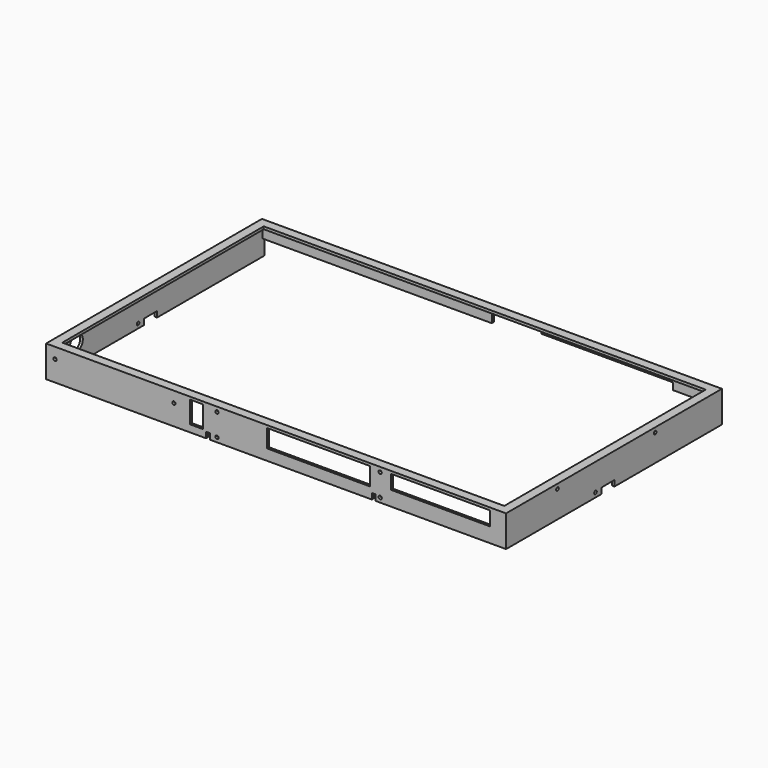
from build123d import *

# Parameters (mm, degrees)
EXTRUDE022_DEPTH        = 11
SKETCH124_W             = 3
SKETCH124_H             = 12.5
SKETCH124_H_2           = 3
EXTRUDE114_DEPTH        = 6
SKETCH126_R             = 1.28
EXTRUDE116_DEPTH        = 10
BODY064_PLACEMENT_ANGLE = 90
BODY068_PLACEMENT_ANGLE = 90
BODY069_PLACEMENT_ANGLE = 90
BODY070_PLACEMENT_ANGLE = 90
BODY071_PLACEMENT_ANGLE = 90
BODY072_ROLL_ANGLE      = -90
BODY072_PLACEMENT_ANGLE = 90
BODY076_ROLL_ANGLE      = -90
BODY076_PLACEMENT_ANGLE = -90
BODY077_ROLL_ANGLE      = -90
BODY077_PLACEMENT_ANGLE = 90
BODY078_ROLL_ANGLE      = -90
BODY078_PLACEMENT_ANGLE = 180
BODY079_ROLL_ANGLE      = -90
BODY079_PLACEMENT_ANGLE = 180
BODY086_PLACEMENT_ANGLE = 90
BODY087_PLACEMENT_ANGLE = 90
BODY088_PLACEMENT_ANGLE = 90
BODY089_PLACEMENT_ANGLE = 90
SKETCH133_R             = 6.25
EXTRUDE123_DEPTH        = 1
EXTRUDE123_DEPTH_BACK   = 10
SKETCH055_W             = 80
SKETCH055_H             = 14
SKETCH055_W_2           = 77
SKETCH055_H_2           = 11
SKETCH055_W_3           = 10
SKETCH055_H_3           = 17
EXTRUDE045_DEPTH        = 8


with BuildPart() as rear_holes002:
    # Sketch028 → Extrude022 (new body)
    with BuildSketch(Plane(origin=(0, 203, 0), x_dir=(-1, 0, 0), z_dir=(0, 1, 0))):
        Polygon((-2, -26), (-356, -26), (-356, -12), (-321.5, -12), (-321.5, -6.68), (-219, -6.68), (-219, -2), (-180.5, -2), (-180.5, -12), (-2, -12), align=None)
    extrude(amount=EXTRUDE022_DEPTH)


with BuildPart() as extrude114:
    # Sketch124 → Extrude114 (new body)
    with BuildSketch(Plane(origin=(0, 0, -26), x_dir=(1, 0, 0), z_dir=(0, 0, -1))):
        with Locations((1, -100.25)):
            Rectangle(SKETCH124_W, SKETCH124_H)
        with Locations((357, -100.25)):
            Rectangle(SKETCH124_W, SKETCH124_H)
        with Locations((126, -2)):
            Rectangle(SKETCH124_W, SKETCH124_H_2)
        with Locations((255, -2)):
            Rectangle(SKETCH124_W, SKETCH124_H_2)
    extrude(amount=-EXTRUDE114_DEPTH)


with BuildPart() as screw_inner:
    # Sketch126 → Extrude116 (new body)
    with BuildSketch(Plane.XY):
        Circle(SKETCH126_R)
    extrude(amount=EXTRUDE116_DEPTH)


with BuildPart() as screw_inner001:
    # Body064 base: copy of screw inner
    add(screw_inner.part)


with BuildPart() as screw_inner001_1:
    # Body064 placement: moved
    add(screw_inner001.part.moved(Location((-1.5, 51, -3.68))).rotate(Axis((-1.5, 51, -3.68), (0, 1, 0)), BODY064_PLACEMENT_ANGLE))


with BuildPart() as screw_inner002:
    # Body068 base: copy of screw inner
    add(screw_inner.part)


with BuildPart() as screw_inner002_1:
    # Body068 placement: moved
    add(screw_inner002.part.moved(Location((7, -1, -8.5))).rotate(Axis((7, -1, -8.5), (-1, 0, 0)), BODY068_PLACEMENT_ANGLE))


with BuildPart() as screw_inner003:
    # Body069 base: copy of screw inner
    add(screw_inner.part)


with BuildPart() as screw_inner003_1:
    # Body069 placement: moved
    add(screw_inner003.part.moved(Location((99.5, -1, -8.5))).rotate(Axis((99.5, -1, -8.5), (-1, 0, 0)), BODY069_PLACEMENT_ANGLE))


with BuildPart() as screw_inner004:
    # Body070 base: copy of screw inner
    add(screw_inner.part)


with BuildPart() as screw_inner004_1:
    # Body070 placement: moved
    add(screw_inner004.part.moved(Location((133, -1, -3.68))).rotate(Axis((133, -1, -3.68), (-1, 0, 0)), BODY070_PLACEMENT_ANGLE))


with BuildPart() as screw_inner005:
    # Body071 base: copy of screw inner
    add(screw_inner.part)


with BuildPart() as screw_inner005_1:
    # Body071 placement: moved
    add(screw_inner005.part.moved(Location((260, -1, -3.68))).rotate(Axis((260, -1, -3.68), (-1, 0, 0)), BODY071_PLACEMENT_ANGLE))


with BuildPart() as screw_inner006:
    # Body072 base: copy of screw inner
    add(screw_inner.part)


with BuildPart() as screw_inner006_1:
    # Body072 roll: moved
    add(screw_inner006.part.rotate(Axis((0, 0, 0), (1, 0, 0)), BODY072_ROLL_ANGLE))


with BuildPart() as screw_inner006_2:
    # Body072 placement: moved
    add(screw_inner006_1.part.moved(Location((360, 51, -3.68))).rotate(Axis((360, 51, -3.68), (0, 0, 1)), BODY072_PLACEMENT_ANGLE))


with BuildPart() as screw_inner007:
    # Body076 base: copy of screw inner
    add(screw_inner.part)


with BuildPart() as screw_inner007_1:
    # Body076 roll: moved
    add(screw_inner007.part.rotate(Axis((0, 0, 0), (1, 0, 0)), BODY076_ROLL_ANGLE))


with BuildPart() as screw_inner007_2:
    # Body076 placement: moved
    add(screw_inner007_1.part.moved(Location((-2, 146, -3.68))).rotate(Axis((-2, 146, -3.68), (0, 0, 1)), BODY076_PLACEMENT_ANGLE))


with BuildPart() as screw_inner008:
    # Body077 base: copy of screw inner
    add(screw_inner.part)


with BuildPart() as screw_inner008_1:
    # Body077 roll: moved
    add(screw_inner008.part.rotate(Axis((0, 0, 0), (1, 0, 0)), BODY077_ROLL_ANGLE))


with BuildPart() as screw_inner008_2:
    # Body077 placement: moved
    add(screw_inner008_1.part.moved(Location((360, 146, -3.68))).rotate(Axis((360, 146, -3.68), (0, 0, 1)), BODY077_PLACEMENT_ANGLE))


with BuildPart() as screw_inner009:
    # Body078 base: copy of screw inner
    add(screw_inner.part)


with BuildPart() as screw_inner009_1:
    # Body078 roll: moved
    add(screw_inner009.part.rotate(Axis((0, 0, 0), (1, 0, 0)), BODY078_ROLL_ANGLE))


with BuildPart() as screw_inner009_2:
    # Body078 placement: moved
    add(screw_inner009_1.part.moved(Location((134, 213, -3.68))).rotate(Axis((134, 213, -3.68), (0, 0, 1)), BODY078_PLACEMENT_ANGLE))


with BuildPart() as screw_inner010:
    # Body079 base: copy of screw inner
    add(screw_inner.part)


with BuildPart() as screw_inner010_1:
    # Body079 roll: moved
    add(screw_inner010.part.rotate(Axis((0, 0, 0), (1, 0, 0)), BODY079_ROLL_ANGLE))


with BuildPart() as screw_inner010_2:
    # Body079 placement: moved
    add(screw_inner010_1.part.moved(Location((330, 213, -3.68))).rotate(Axis((330, 213, -3.68), (0, 0, 1)), BODY079_PLACEMENT_ANGLE))


with BuildPart() as screw_inner011:
    # Body086 base: copy of screw inner
    add(screw_inner.part)


with BuildPart() as screw_inner011_1:
    # Body086 placement: moved
    add(screw_inner011.part.moved(Location((-1, 88, -21))).rotate(Axis((-1, 88, -21), (0, 1, 0)), BODY086_PLACEMENT_ANGLE))


with BuildPart() as screw_inner012:
    # Body087 base: copy of screw inner
    add(screw_inner.part)


with BuildPart() as screw_inner012_1:
    # Body087 placement: moved
    add(screw_inner012.part.moved(Location((359, 88, -21))).rotate(Axis((359, 88, -21), (0, -1, 0)), BODY087_PLACEMENT_ANGLE))


with BuildPart() as screw_inner013:
    # Body088 base: copy of screw inner
    add(screw_inner.part)


with BuildPart() as screw_inner013_1:
    # Body088 placement: moved
    add(screw_inner013.part.moved(Location((133, 0, -21))).rotate(Axis((133, 0, -21), (-1, 0, 0)), BODY088_PLACEMENT_ANGLE))


with BuildPart() as screw_inner014:
    # Body089 base: copy of screw inner
    add(screw_inner.part)


with BuildPart() as screw_inner014_1:
    # Body089 placement: moved
    add(screw_inner014.part.moved(Location((260, 0, -21))).rotate(Axis((260, 0, -21), (-1, 0, 0)), BODY089_PLACEMENT_ANGLE))


with BuildPart() as power_hole002:
    # Sketch133 → Extrude123 (new body, two sides)
    with BuildSketch(Plane(origin=(-3, 0, 0), x_dir=(0, -1, 0), z_dir=(-1, 0, 0))) as extrude123_sk:
        with Locations((-28, -10)):
            Circle(SKETCH133_R)
    extrude(amount=EXTRUDE123_DEPTH)
    extrude(extrude123_sk.sketch, amount=-EXTRUDE123_DEPTH_BACK)


with BuildPart() as compound012:
    # Sketch055 → Extrude045 (new body)
    with BuildSketch(Plane.XZ.offset(3)):
        with Locations((212, -9)):
            Rectangle(SKETCH055_W, SKETCH055_H)
        with Locations((307, -7.5)):
            Rectangle(SKETCH055_W_2, SKETCH055_H_2)
        with Locations((117, -10.5)):
            Rectangle(SKETCH055_W_3, SKETCH055_H_3)
    extrude(amount=-EXTRUDE045_DEPTH)

    # Compound012: union rear holes002, Extrude114, screw inner001, screw inner002, screw inner003, screw inner004, screw inner005, screw inner006, screw inner007, screw inner008, screw inner009, screw inner010, screw inner011, screw inner012, screw inner013, screw inner014, power hole002
    add(rear_holes002.part)
    add(extrude114.part)
    add(screw_inner001_1.part)
    add(screw_inner002_1.part)
    add(screw_inner003_1.part)
    add(screw_inner004_1.part)
    add(screw_inner005_1.part)
    add(screw_inner006_2.part)
    add(screw_inner007_2.part)
    add(screw_inner008_2.part)
    add(screw_inner009_2.part)
    add(screw_inner010_2.part)
    add(screw_inner011_1.part)
    add(screw_inner012_1.part)
    add(screw_inner013_1.part)
    add(screw_inner014_1.part)
    add(power_hole002.part)


with BuildPart() as side003:
    # Sweep001: sweep along a path in Sketch004
    with BuildLine(Plane.XY) as sweep001_path:
        Line((-0.5, 211.5), (358.5, 211.5))
        Line((358.5, 211.5), (358.5, 0.5))
        Line((358.5, 0.5), (-0.5, 0.5))
        Line((-0.5, 0.5), (-0.5, 211.5))
    # Sketch003 → Sweep001 (sweep)
    with BuildSketch(Plane.XZ.offset(-14)):
        Polygon((7, -2), (7, 0), (0, 0), (0, -24.5), (2, -24.5), (2, -2), align=None)
    sweep(path=sweep001_path.line, transition=Transition.RIGHT)

    # Cut004: cut Compound012
    add(compound012.part, mode=Mode.SUBTRACT)


solid = side003.part
